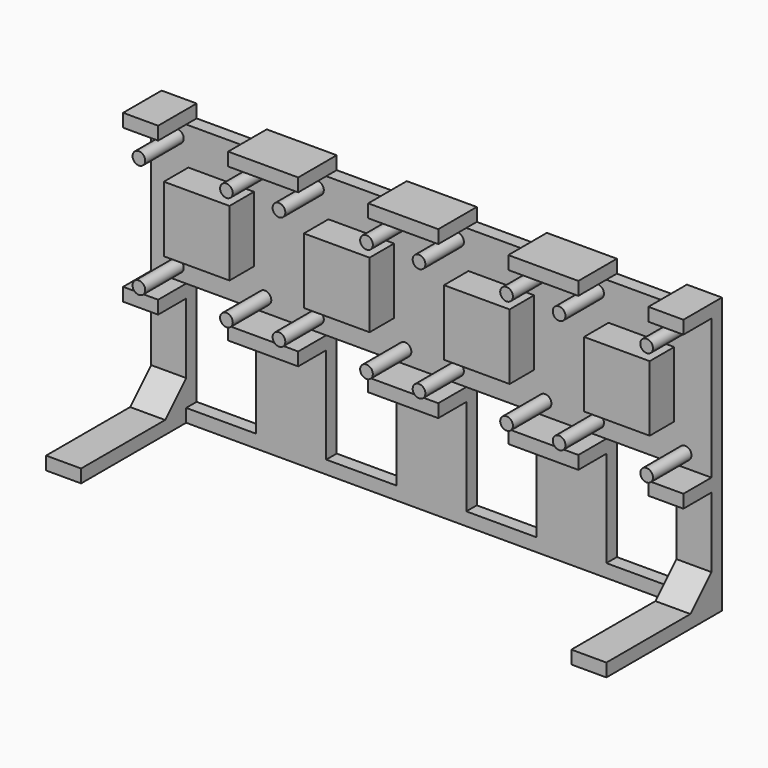
from build123d import *

# Parameters (mm, degrees)
SKETCH_W               = 32
SKETCH_H               = 32
PAD_DEPTH              = 3
SKETCH001_R            = 1.45
PAD001_DEPTH           = 11
SKETCH002_W            = 15
SKETCH002_H            = 15
PAD002_DEPTH           = 7
SKETCH003_W            = 8
SKETCH003_H            = 3
PAD003_DEPTH           = 11
PAD004_DEPTH           = 3
SKETCH005_W            = 32
SKETCH005_H            = 3
PAD005_DEPTH           = 30
LINEARPATTERN_COUNT    = 4
LINEARPATTERN_PITCH    = 32
LINEARPATTERN001_COUNT = 4
LINEARPATTERN001_PITCH = 32
LINEARPATTERN002_COUNT = 4
LINEARPATTERN002_PITCH = 32
LINEARPATTERN003_COUNT = 4
LINEARPATTERN003_PITCH = 32
LINEARPATTERN004_COUNT = 4
LINEARPATTERN004_PITCH = 32
LINEARPATTERN005_COUNT = 4
LINEARPATTERN005_PITCH = 32
SKETCH006_W            = 112
SKETCH006_H            = 30
POCKET_DEPTH           = 3
PAD006_DEPTH           = 8
PAD007_DEPTH           = 8


with BuildPart() as part:
    # Sketch → Pad (new body)
    with BuildSketch(Plane.XZ):
        with Locations((16, 16)):
            Rectangle(SKETCH_W, SKETCH_H)
    pad = extrude(amount=PAD_DEPTH)

    # Sketch001 (on Face6 of Pad) → Pad001 (join)
    with BuildSketch(Plane.XZ.offset(3)):
        with Locations((6, 3)):
            Circle(SKETCH001_R)
        with Locations((26, 3)):
            Circle(SKETCH001_R)
        with Locations((26, 29)):
            Circle(SKETCH001_R)
        with Locations((6, 29)):
            Circle(SKETCH001_R)
    pad001 = extrude(amount=PAD001_DEPTH)

    # Sketch002 (on Face5 of Pad001) → Pad002 (join)
    with BuildSketch(Plane.XZ.offset(3)):
        with Locations((16, 16)):
            Rectangle(SKETCH002_W, SKETCH002_H)
    pad002 = extrude(amount=PAD002_DEPTH)

    # Sketch003 → Pad003 (join)
    with BuildSketch(Plane.XZ):
        with Locations((4, -1.5)):
            Rectangle(SKETCH003_W, SKETCH003_H)
        with Locations((4, 33.5)):
            Rectangle(SKETCH003_W, SKETCH003_H)
        with Locations((28, 33.5)):
            Rectangle(SKETCH003_W, SKETCH003_H)
        with Locations((28, -1.5)):
            Rectangle(SKETCH003_W, SKETCH003_H)
    pad003 = extrude(amount=PAD003_DEPTH)

    # Sketch004 → Pad004 (join)
    with BuildSketch(Plane.XZ):
        Polygon((0, -2.999526), (0, -27.999526), (32, -27.999526), (32, -3), (24, -3), (24, -25), (8, -25), (8, -3), align=None)
    pad004 = extrude(amount=PAD004_DEPTH)

    # Sketch005 (on Face42 of Pad004) → Pad005 (join)
    with BuildSketch(Plane.XZ.offset(3)):
        with Locations((16, -26.499526)):
            Rectangle(SKETCH005_W, SKETCH005_H)
    pad005 = extrude(amount=PAD005_DEPTH)

    # LinearPattern: Pad ×4
    with Locations(*[(i * LINEARPATTERN_PITCH, 0, 0) for i in range(1, LINEARPATTERN_COUNT)]):
        add(pad)

    # LinearPattern001: Pad001 ×4
    with Locations(*[(i * LINEARPATTERN001_PITCH, 0, 0) for i in range(1, LINEARPATTERN001_COUNT)]):
        add(pad001)

    # LinearPattern002: Pad002 ×4
    with Locations(*[(i * LINEARPATTERN002_PITCH, 0, 0) for i in range(1, LINEARPATTERN002_COUNT)]):
        add(pad002)

    # LinearPattern003: Pad003 ×4
    with Locations(*[(i * LINEARPATTERN003_PITCH, 0, 0) for i in range(1, LINEARPATTERN003_COUNT)]):
        add(pad003)

    # LinearPattern004: Pad004 ×4
    with Locations(*[(i * LINEARPATTERN004_PITCH, 0, 0) for i in range(1, LINEARPATTERN004_COUNT)]):
        add(pad004)

    # LinearPattern005: Pad005 ×4
    with Locations(*[(i * LINEARPATTERN005_PITCH, 0, 0) for i in range(1, LINEARPATTERN005_COUNT)]):
        add(pad005)

    # Sketch006 (on Face120 of LinearPattern005) → Pocket (cut)
    with BuildSketch(Plane(origin=(0, 0, -27.999526), x_dir=(1, 0, 0), z_dir=(0, 0, -1))):
        with Locations((64, 18)):
            Rectangle(SKETCH006_W, SKETCH006_H)
    extrude(amount=-POCKET_DEPTH, mode=Mode.SUBTRACT)

    # Sketch007 (on Face135 of Pocket) → Pad006 (join)
    with BuildSketch(Plane(origin=(0, 0, 0), x_dir=(0, 0, -1), z_dir=(-1, 0, 0))):
        Polygon((24.999526, 3), (18.999526, 3), (24.999526, 9), align=None)
    extrude(amount=-PAD006_DEPTH)

    # Sketch008 (on Face192 of Pad006) → Pad007 (join)
    with BuildSketch(Plane(origin=(128, 0, 0), x_dir=(0, 0, 1), z_dir=(1, 0, 0))):
        Polygon((-24.999526, 3), (-18.999526, 3), (-24.999526, 9), align=None)
    extrude(amount=-PAD007_DEPTH)


solid = part.part
